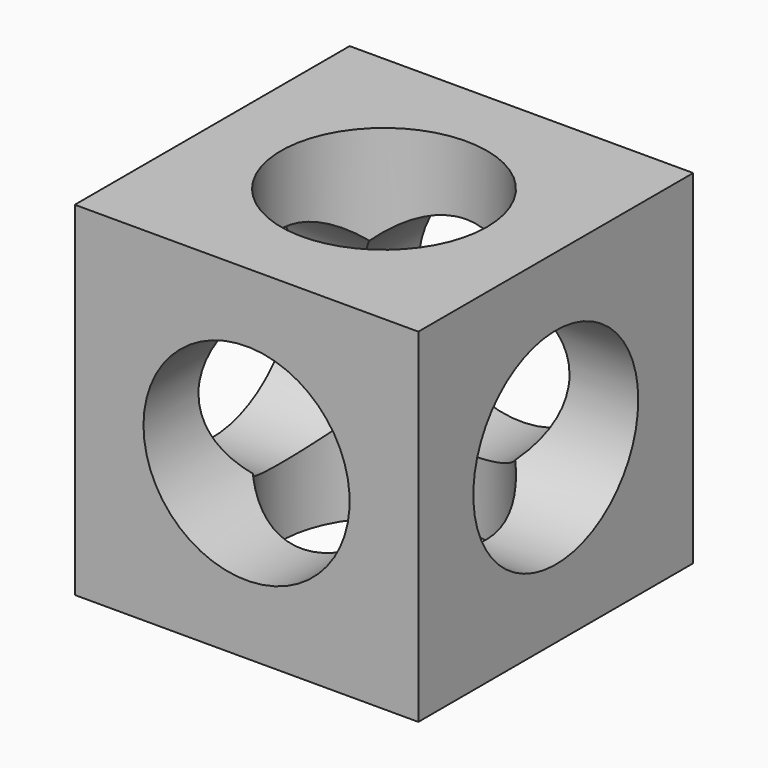
from build123d import *

# Parameters (mm, degrees)
F0_W     = 127
F0_H     = 127
F1_DEPTH = 127
F2_R     = 38.1
F3_DEPTH = 127
F4_R     = 38.1
F5_DEPTH = 127
F6_R     = 38.1
F7_DEPTH = 127


with BuildPart() as f1:
    # F0 (on Top) → F1 (new body)
    with BuildSketch(Plane.XY):
        Rectangle(F0_W, F0_H)
    extrude(amount=F1_DEPTH)

    # F2 (on face) → F3 (cut)
    with BuildSketch(Plane.YZ.offset(63.5)):
        with Locations((0, 63.5)):
            Circle(F2_R)
    extrude(amount=-F3_DEPTH, mode=Mode.SUBTRACT)

    # F4 (on face) → F5 (cut)
    with BuildSketch(Plane(origin=(0, 63.5, 0), x_dir=(-1, 0, 0), z_dir=(0, 1, 0))):
        with Locations((0, 63.5)):
            Circle(F4_R)
    extrude(amount=-F5_DEPTH, mode=Mode.SUBTRACT)

    # F6 (on face) → F7 (cut)
    with BuildSketch(Plane.XY.offset(127)):
        Circle(F6_R)
    extrude(amount=-F7_DEPTH, mode=Mode.SUBTRACT)


solid = f1.part
